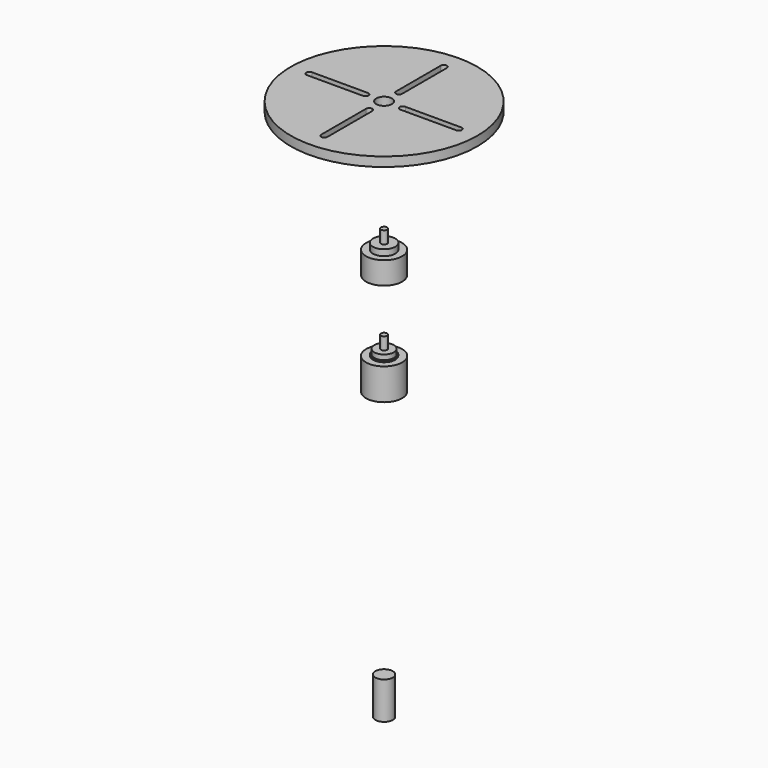
from build123d import *

# Parameters (mm, degrees)
F0_R      = 150
F0_R_2    = 12.5
F1_DEPTH  = 15
F2_R      = 22.5
F2_R_2    = 12.5
F3_DEPTH  = 15
F5_DEPTH  = 25
F7_R      = 5
F8_DEPTH  = 20
F9_R      = 17.95
F10_DEPTH = 9.8
F11_R     = 29
F12_DEPTH = 36
F14_R     = 5
F15_DEPTH = 20
F16_R     = 15.75
F17_DEPTH = 8
F18_R     = 17.8
F19_DEPTH = 2
F20_R     = 29
F21_DEPTH = 50.7
F23_R     = 14
F24_DEPTH = 60


with BuildPart() as f1:
    # F0 (on Top) → F1 (new body)
    with BuildSketch(Plane.XY):
        Circle(F0_R)
        Circle(F0_R_2, mode=Mode.SUBTRACT)
    extrude(amount=F1_DEPTH)

    # F2 (on face) → F3 (join)
    with BuildSketch(Plane(origin=(0, 0, 0), x_dir=(1, 0, 0), z_dir=(0, 0, -1))):
        Circle(F2_R)
        Circle(F2_R_2, mode=Mode.SUBTRACT)
    extrude(amount=F3_DEPTH)

    # F4 (on face) → F5 (cut)
    with BuildSketch(Plane.XY.offset(15)):
        with BuildLine():
            ThreePointArc((0, -25), (-3.5355339059, -26.4644660941), (-5, -30))
            Line((-5, -30), (-5, -120))
            ThreePointArc((-5, -120), (0, -125), (5, -120))
            Line((5, -120), (5, -30))
            ThreePointArc((5, -30), (3.5355339059, -26.4644660941), (0, -25))
        make_face()
        with BuildLine():
            Line((120, 5), (30, 5))
            ThreePointArc((30, 5), (25, 0), (30, -5))
            Line((30, -5), (120, -5))
            ThreePointArc((120, -5), (125, 0), (120, 5))
        make_face()
        with BuildLine():
            Line((-5, 120), (-5, 30))
            ThreePointArc((-5, 30), (0, 25), (5, 30))
            Line((5, 30), (5, 120))
            ThreePointArc((5, 120), (0, 125), (-5, 120))
        make_face()
        with BuildLine():
            Line((-120, -5), (-30, -5))
            ThreePointArc((-30, -5), (-25, 0), (-30, 5))
            Line((-30, 5), (-120, 5))
            ThreePointArc((-120, 5), (-125, 0), (-120, -5))
        make_face()
    extrude(amount=-F5_DEPTH, mode=Mode.SUBTRACT)


with BuildPart() as f8:
    # F7 (on offset) → F8 (new body)
    with BuildSketch(Plane(origin=(0, 0, -165), x_dir=(1, 0, 0), z_dir=(0, 0, -1))):
        Circle(F7_R)
    extrude(amount=F8_DEPTH)

    # F9 (on face) → F10 (join)
    with BuildSketch(Plane(origin=(0, 0, -185), x_dir=(1, 0, 0), z_dir=(0, 0, -1))):
        Circle(F9_R)
    extrude(amount=F10_DEPTH)

    # F11 (on face) → F12 (join)
    with BuildSketch(Plane(origin=(0, 0, -194.8), x_dir=(1, 0, 0), z_dir=(0, 0, -1))):
        Circle(F11_R)
    extrude(amount=F12_DEPTH)


with BuildPart() as f15:
    # F14 (on offset) → F15 (new body)
    with BuildSketch(Plane(origin=(0, 0, -315), x_dir=(1, 0, 0), z_dir=(0, 0, -1))):
        Circle(F14_R)
    extrude(amount=F15_DEPTH)

    # F16 (on face) → F17 (join)
    with BuildSketch(Plane(origin=(0, 0, -335), x_dir=(1, 0, 0), z_dir=(0, 0, -1))):
        Circle(F16_R)
    extrude(amount=F17_DEPTH)

    # F18 (on face) → F19 (join)
    with BuildSketch(Plane(origin=(0, 0, -343), x_dir=(1, 0, 0), z_dir=(0, 0, -1))):
        Circle(F18_R)
    extrude(amount=F19_DEPTH)

    # F20 (on face) → F21 (join)
    with BuildSketch(Plane(origin=(0, 0, -345), x_dir=(1, 0, 0), z_dir=(0, 0, -1))):
        Circle(F20_R)
    extrude(amount=F21_DEPTH)


with BuildPart() as f24:
    # F23 (on offset) → F24 (new body)
    with BuildSketch(Plane(origin=(0, 0, -795.7), x_dir=(1, 0, 0), z_dir=(0, 0, -1))):
        Circle(F23_R)
    extrude(amount=F24_DEPTH)


solid = Compound([f1.part, f8.part, f15.part, f24.part])
